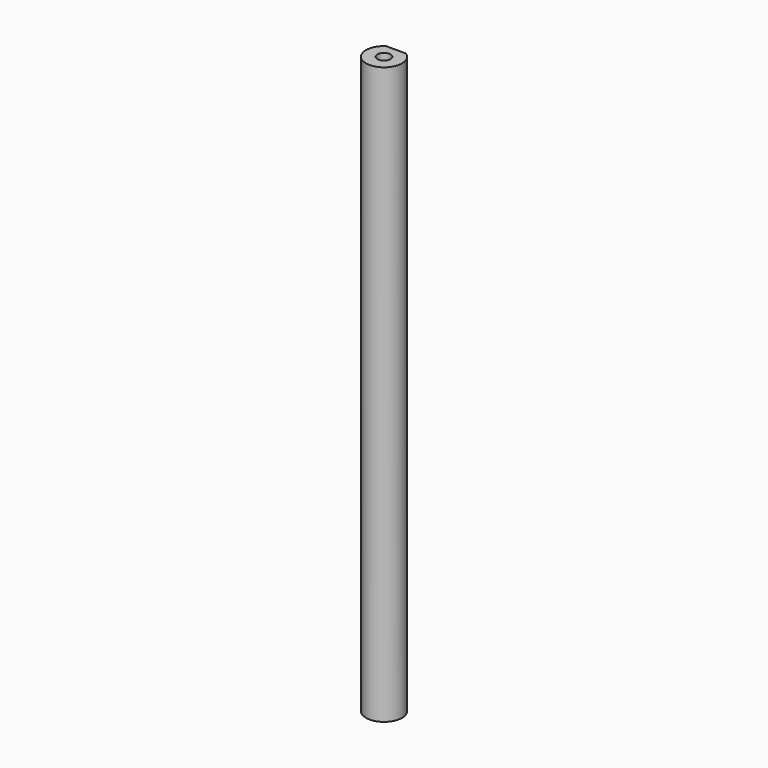
from build123d import *

# Parameters (mm, degrees)
F1_DEPTH = 152.4
F2_R     = 1.7272
F3_DEPTH = 6.35


with BuildPart() as f1:
    # F0 (on Top) → F1 (new body)
    with BuildSketch(Plane.XY):
        with BuildLine():
            Line((2.632571, 3.96875), (-2.632571, 3.96875))
            ThreePointArc((-2.632571, 3.96875), (0, -4.7625), (2.632571, 3.96875))
        make_face()
    extrude(amount=F1_DEPTH)

    # F2 (on face) → F3 (cut)
    with BuildSketch(Plane.XY.offset(152.4)):
        Circle(F2_R)
    extrude(amount=-F3_DEPTH, mode=Mode.SUBTRACT)


solid = f1.part
